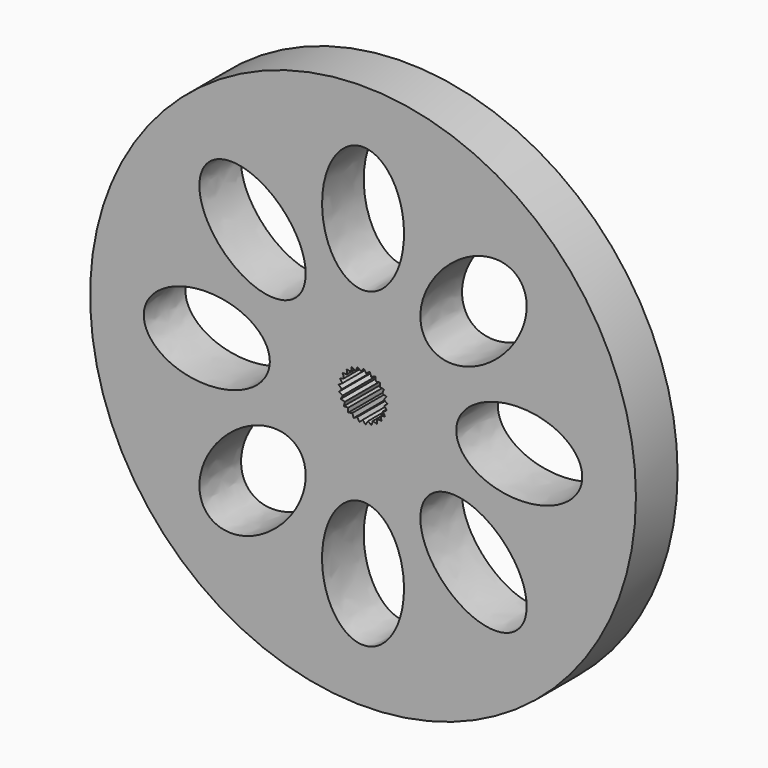
from build123d import *

# Parameters (mm, degrees)
F0_R     = 33.274
F1_DEPTH = 6.35


with BuildPart() as f1:
    # F0 (on Front) → F1 (new body)
    with BuildSketch(Plane.XZ):
        Circle(F0_R)
        with BuildLine():
            add(Edge.make_bspline(
                [(-8.038331, -8.038331), (-14.157043, -1.91962), (-19.245766, -13.127055), (-24.33449, -24.33449), (-13.127055, -19.245766), (-1.91962, -14.157043), (-8.038331, -8.038331)],
                knots=[0, 0, 0, 2.094395, 2.094395, 4.18879, 4.18879, 6.283185, 6.283185, 6.283185], degree=2, weights=[1, 0.5, 1, 0.5, 1, 0.5, 1]))
        make_face(mode=Mode.SUBTRACT)
        with BuildLine():
            add(Edge.make_bspline(
                [(0, -11.367917), (-8.653165, -11.367917), (-4.326583, -22.891041), (0, -34.414165), (4.326583, -22.891041), (8.653165, -11.367917), (0, -11.367917)],
                knots=[0, 0, 0, 2.094395, 2.094395, 4.18879, 4.18879, 6.283185, 6.283185, 6.283185], degree=2, weights=[1, 0.5, 1, 0.5, 1, 0.5, 1]))
        make_face(mode=Mode.SUBTRACT)
        with BuildLine():
            add(Edge.make_bspline(
                [(8.038331, -8.038331), (1.91962, -14.157043), (13.127055, -19.245766), (24.33449, -24.33449), (19.245766, -13.127055), (14.157043, -1.91962), (8.038331, -8.038331)],
                knots=[0, 0, 0, 2.094395, 2.094395, 4.18879, 4.18879, 6.283185, 6.283185, 6.283185], degree=2, weights=[1, 0.5, 1, 0.5, 1, 0.5, 1]))
        make_face(mode=Mode.SUBTRACT)
        with BuildLine():
            add(Edge.make_bspline(
                [(-11.367917, 0), (-11.367917, 8.653165), (-22.891041, 4.326583), (-34.414165, 0), (-22.891041, -4.326583), (-11.367917, -8.653165), (-11.367917, 0)],
                knots=[0, 0, 0, 2.094395, 2.094395, 4.18879, 4.18879, 6.283185, 6.283185, 6.283185], degree=2, weights=[1, 0.5, 1, 0.5, 1, 0.5, 1]))
        make_face(mode=Mode.SUBTRACT)
        with BuildLine():
            add(Edge.make_bspline(
                [(-8.038331, 8.038331), (-1.91962, 14.157043), (-13.127055, 19.245766), (-24.33449, 24.33449), (-19.245766, 13.127055), (-14.157043, 1.91962), (-8.038331, 8.038331)],
                knots=[0, 0, 0, 2.094395, 2.094395, 4.18879, 4.18879, 6.283185, 6.283185, 6.283185], degree=2, weights=[1, 0.5, 1, 0.5, 1, 0.5, 1]))
        make_face(mode=Mode.SUBTRACT)
        Polygon((-2.313127, 1.150841), (-2.481189, 1.651718), (-1.954254, 1.689937), (-1.992473, 2.216873), (-1.472587, 2.122848), (-1.378562, 2.642733), (-0.898392, 2.422372), (-0.678031, 2.902541), (-0.267748, 2.56969), (0.065104, 2.979972), (0.37972, 2.555544), (0.804147, 2.87016), (1.003328, 2.380825), (1.492663, 2.580005), (1.563894, 2.056509), (2.08739, 2.12774), (2.026194, 1.602976), (2.550958, 1.54178), (2.361181, 1.048721), (2.85424, 0.858945), (2.547807, 0.428572), (2.97818, 0.122139), (2.574344, -0.218506), (2.914989, -0.622342), (2.439126, -0.851855), (2.668639, -1.327718), (2.150649, -1.431678), (2.254609, -1.949669), (1.727038, -1.921544), (1.698914, -2.449115), (1.194912, -2.290672), (1.036469, -2.794674), (0.587704, -2.515869), (0.308899, -2.964634), (-0.056431, -2.582985), (-0.43808, -2.948314), (-0.69702, -2.487802), (-1.157533, -2.746742), (-1.293813, -2.236301), (-1.804254, -2.372581), (-1.809311, -1.844285), (-2.337607, -1.849342), (-2.211123, -1.336386), (-2.724079, -1.209903), (-2.474002, -0.744517), (-2.939388, -0.494441), (-2.581431, -0.105868), (-2.970004, 0.252089), (-2.526659, 0.539434), (-2.814004, 0.982779), align=None, mode=Mode.SUBTRACT)
        with BuildLine():
            add(Edge.make_bspline(
                [(8.038331, 8.038331), (14.157043, 1.91962), (19.245766, 13.127055), (24.33449, 24.33449), (13.127055, 19.245766), (1.91962, 14.157043), (8.038331, 8.038331)],
                knots=[0, 0, 0, 2.094395, 2.094395, 4.18879, 4.18879, 6.283185, 6.283185, 6.283185], degree=2, weights=[1, 0.5, 1, 0.5, 1, 0.5, 1]))
        make_face(mode=Mode.SUBTRACT)
        with BuildLine():
            add(Edge.make_bspline(
                [(11.367917, 0), (11.367917, -8.653165), (22.891041, -4.326583), (34.414165, 0), (22.891041, 4.326583), (11.367917, 8.653165), (11.367917, 0)],
                knots=[0, 0, 0, 2.094395, 2.094395, 4.18879, 4.18879, 6.283185, 6.283185, 6.283185], degree=2, weights=[1, 0.5, 1, 0.5, 1, 0.5, 1]))
        make_face(mode=Mode.SUBTRACT)
        with BuildLine():
            add(Edge.make_bspline(
                [(0, 11.367917), (8.653165, 11.367917), (4.326583, 22.891041), (0, 34.414165), (-4.326583, 22.891041), (-8.653165, 11.367917), (0, 11.367917)],
                knots=[0, 0, 0, 2.094395, 2.094395, 4.18879, 4.18879, 6.283185, 6.283185, 6.283185], degree=2, weights=[1, 0.5, 1, 0.5, 1, 0.5, 1]))
        make_face(mode=Mode.SUBTRACT)
    extrude(amount=F1_DEPTH)


solid = f1.part
